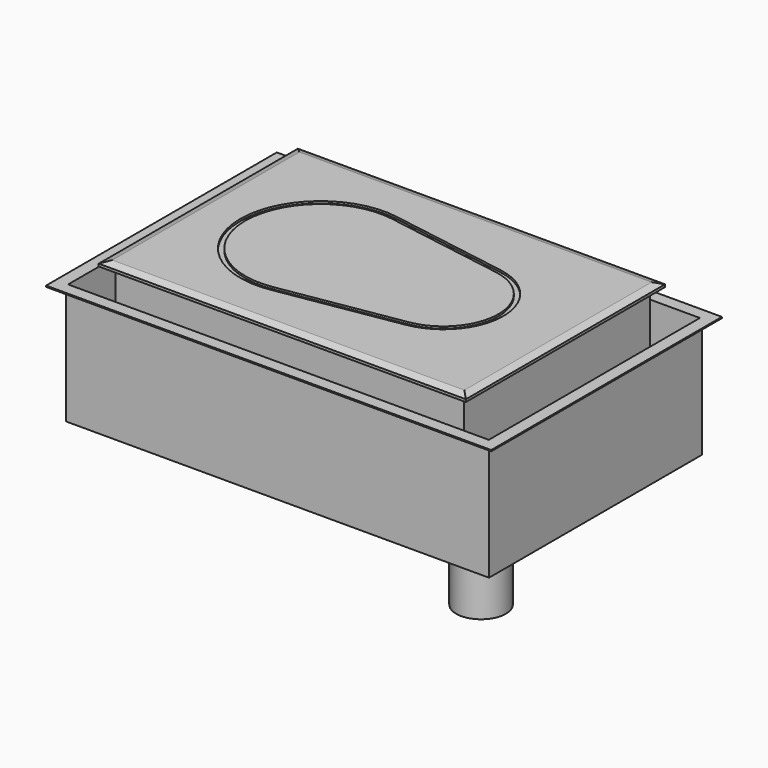
from build123d import *

# Parameters (mm, degrees)
F0_W      = 466
F0_H      = 316
F1_DEPTH  = 6.35
F2_SIZE2  = 9.525
F2_SIZE   = 3.175
F4_DEPTH  = 2.54
F5_W      = 442
F5_H      = 295
F6_DEPTH  = 170
F7_R      = 31.5
F8_DEPTH  = 152.4
F10_START = -19.05
F9_W      = 537
F9_H      = 338
F10_DEPTH = 152.95
F11_T     = -1.524
F12_START = -19.05
F9_W_2    = 565
F9_H_2    = 366
F12_DEPTH = 1.524


with BuildPart() as f1:
    # F0 (on Top) → F1 (new body)
    with BuildSketch(Plane.XY):
        with Locations((-233, 158)):
            Rectangle(F0_W, F0_H)
    extrude(amount=F1_DEPTH)

    # F2
    f2_edges = [f1.edges().sort_by_distance(p)[0] for p in [
        (-233, 0, 6.35),
        (0, 158, 6.35),
        (-233, 316, 6.35),
        (-466, 158, 6.35),
    ]]
    chamfer(f2_edges, length=F2_SIZE, length2=F2_SIZE2)

    # F3 (on face) → F4 (cut)
    with BuildSketch(Plane.XY.offset(6.35)):
        with BuildLine():
            Line((-142.5426133743, 233.1967378452), (-294.5301511658, 258.258317127))
            ThreePointArc((-294.5301511658, 258.258317127), (-412.66, 158.012), (-294.5301511658, 57.765682873))
            Line((-294.5301511658, 57.765682873), (-142.5426133743, 82.8272621548))
            ThreePointArc((-142.5426133743, 82.8272621548), (-78.74, 158.012), (-142.5426133743, 233.1967378452))
        make_face()
        with BuildLine():
            Line((-143.5757292344, 89.0926588426), (-295.5632670258, 64.0310795608))
            ThreePointArc((-295.5632670258, 64.0310795608), (-406.3099981074, 158.012), (-295.5632670258, 251.9929204392))
            Line((-295.5632670258, 251.9929204392), (-143.5757292344, 226.9313411574))
            ThreePointArc((-143.5757292344, 226.9313411574), (-85.0900018926, 158.012), (-143.5757292344, 89.0926588426))
        make_face(mode=Mode.SUBTRACT)
    extrude(amount=-F4_DEPTH, mode=Mode.SUBTRACT)

    # F5 (on Top) → F6 (join)
    with BuildSketch(Plane.XY):
        with Locations((-233, 159.5)):
            Rectangle(F5_W, F5_H)
    extrude(amount=-F6_DEPTH)

    # F7 (on face) → F8 (join)
    with BuildSketch(Plane(origin=(0, 0, -170), x_dir=(1, 0, 0), z_dir=(0, 0, -1))):
        with Locations((-103.5423949361, -153.4942388535)):
            Circle(F7_R)
    extrude(amount=F8_DEPTH)



with BuildPart() as f10:
    # F9 (on Top) → F10 (new body)
    with BuildSketch(Plane.XY.offset(F10_START)):
        with Locations((-221.5, 147)):
            Rectangle(F9_W, F9_H)
    extrude(amount=-F10_DEPTH)

    # F11
    f11_openings = [f10.faces().sort_by_distance(p)[0] for p in [
        (-221.5, 147, -19.05),
    ]]
    offset(amount=F11_T, openings=f11_openings)


with BuildPart() as f1_1:
    add(f1.part)

    add(f10.part)  # F12 merges F10
    # F9 (on Top) → F12 (join)
    with BuildSketch(Plane.XY.offset(F12_START)):
        with Locations((-221.5, 147)):
            Rectangle(F9_W_2, F9_H_2)
        with Locations((-221.5, 147)):
            Rectangle(F9_W, F9_H, mode=Mode.SUBTRACT)
    extrude(amount=-F12_DEPTH)


solid = f1_1.part
